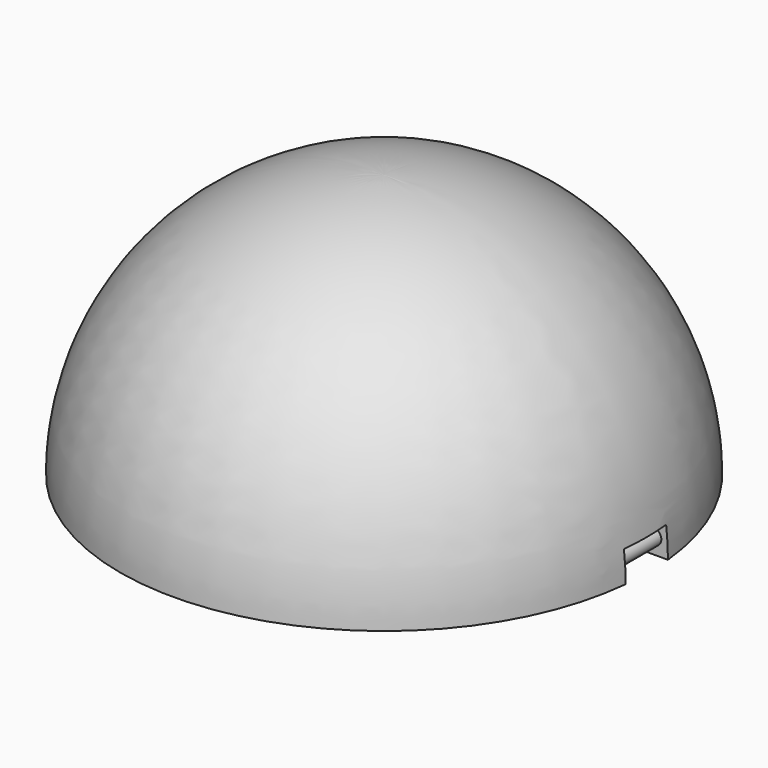
from build123d import *

# Parameters (mm, degrees)
F3_R     = 12.7
F4_DEPTH = 25.4
F5_R     = 1.905
F6_DEPTH = 6.35
F8_DEPTH = 3.175


with BuildPart() as f1:
    # F0 (on Front) → F1 (revolve)
    with BuildSketch(Plane.XZ):
        with BuildLine():
            Line((55.88, 0), (63.5, 0))
            ThreePointArc((63.5, 0), (44.901281, 44.901281), (0, 63.5))
            Line((0, 63.5), (0, 55.88))
            ThreePointArc((0, 55.88), (39.513127, 39.513127), (55.88, 0))
        make_face()
    revolve(axis=Axis((0, 0, 59.69), (0, 0, 1)))

    # F3 (on offset) → F4 (cut)
    with BuildSketch(Plane.YZ.offset(-63.5)):
        Circle(F3_R)
    extrude(amount=F4_DEPTH, mode=Mode.SUBTRACT)

    # F5 (on Front) → F6 (cut, symmetric)
    with BuildSketch(Plane.XZ):
        Polygon((48.059651, 0.355159), (49.010565, -0.322395), (63.918643, -0.689492), (65.912679, 6.508722), (63.5, 7.297605), (53.006356, 7.297605), align=None)
        with Locations((59.69, 3.81)):
            Circle(F5_R, mode=Mode.SUBTRACT)
    extrude(amount=F6_DEPTH, both=True, mode=Mode.SUBTRACT)

    # F7 (on Front) → F8 (cut, symmetric)
    with BuildSketch(Plane.XZ):
        with BuildLine():
            Line((-55.752888, 12.047612), (-54.549066, 12.047612))
            Line((-54.549066, 12.047612), (-53.656827, 11.972422))
            Line((-53.656827, 11.972422), (-52.415899, 16.085417))
            Line((-52.415899, 16.085417), (-55.752888, 16.085417))
            Line((-55.752888, 16.085417), (-55.752888, 14.130405))
            Line((-55.752888, 14.130405), (-55.274267, 14.130405))
            ThreePointArc((-55.274267, 14.130405), (-55.198459, 14.085748), (-55.200769, 13.997796))
            Line((-55.200769, 13.997796), (-55.752888, 13.114408))
            Line((-55.752888, 13.114408), (-55.752888, 12.047612))
        make_face()
    extrude(amount=F8_DEPTH, both=True, mode=Mode.SUBTRACT)


solid = f1.part
